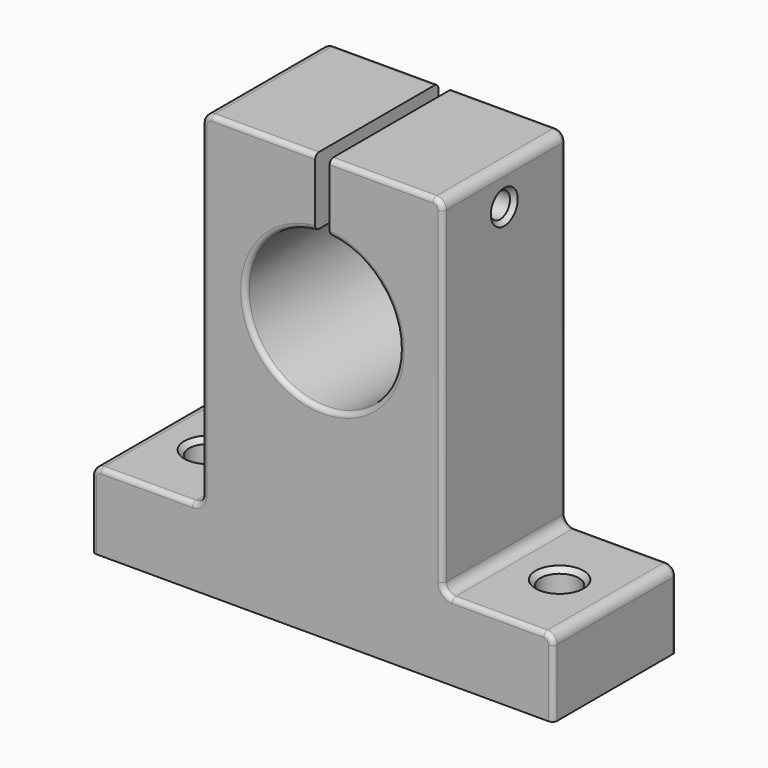
from build123d import *

# Parameters (mm, degrees)
F1_DEPTH       = 8
F2_R           = 0.5
F3_R           = 0.5
F5_D           = 4
F5_CSINK_D     = 5
F5_CSINK_ANGLE = 90
F7_D           = 2.6
F7_CSINK_D     = 3.5
F7_CSINK_ANGLE = 90


with BuildPart() as f1:
    # F0 (on Front) → F1 (new body, symmetric)
    with BuildSketch(Plane.XZ):
        with BuildLine():
            Line((-24, -18.891666), (24, -18.891666))
            Line((24, -18.891666), (24, -11.891666))
            ThreePointArc((24, -11.891666), (23.707107, -11.184559), (23, -10.891666))
            Line((23, -10.891666), (13.5, -10.891666))
            ThreePointArc((13.5, -10.891666), (12.792893, -10.598773), (12.5, -9.891666))
            Line((12.5, -9.891666), (12.5, 24.108334))
            ThreePointArc((12.5, 24.108334), (12.207107, 24.815441), (11.5, 25.108334))
            Line((11.5, 25.108334), (0.75, 25.108334))
            Line((0.75, 25.108334), (0.75, 18.0731))
            ThreePointArc((0.75, 18.0731), (0, 2.108334), (-0.75, 18.0731))
            Line((-0.75, 18.0731), (-0.75, 25.108334))
            Line((-0.75, 25.108334), (-11.5, 25.108334))
            ThreePointArc((-11.5, 25.108334), (-12.207107, 24.815441), (-12.5, 24.108334))
            Line((-12.5, 24.108334), (-12.5, -9.891666))
            ThreePointArc((-12.5, -9.891666), (-12.792893, -10.598773), (-13.5, -10.891666))
            Line((-13.5, -10.891666), (-23, -10.891666))
            ThreePointArc((-23, -10.891666), (-23.707107, -11.184559), (-24, -11.891666))
            Line((-24, -11.891666), (-24, -18.891666))
        make_face()
    extrude(amount=F1_DEPTH, both=True)

    # F2
    f2_edges = [f1.edges().sort_by_distance(p)[0] for p in [
        (12.5, -8, 7.108334),
        (-12.5, -8, 7.108334),
        (-12.5, 8, 7.108334),
        (12.5, 8, 7.108334),
    ]]
    fillet(f2_edges, radius=F2_R)

    # F3
    f3_edges = [f1.edges().sort_by_distance(p)[0] for p in [
        (0, -8, 2.108334),
        (0, 8, 2.108334),
    ]]
    fillet(f3_edges, radius=F3_R)

    # F5 (through all)
    with Locations(Plane.XY.offset(-10.891666)):
        with Locations((-18.25, 0), (18.25, 0)):
            CounterSinkHole(F5_D / 2, F5_CSINK_D / 2, counter_sink_angle=F5_CSINK_ANGLE)

    # F7 (through all)
    with Locations(Plane.YZ.offset(12.5)):
        with Locations((0, 21.340717)):
            CounterSinkHole(F7_D / 2, F7_CSINK_D / 2, counter_sink_angle=F7_CSINK_ANGLE)


solid = f1.part
